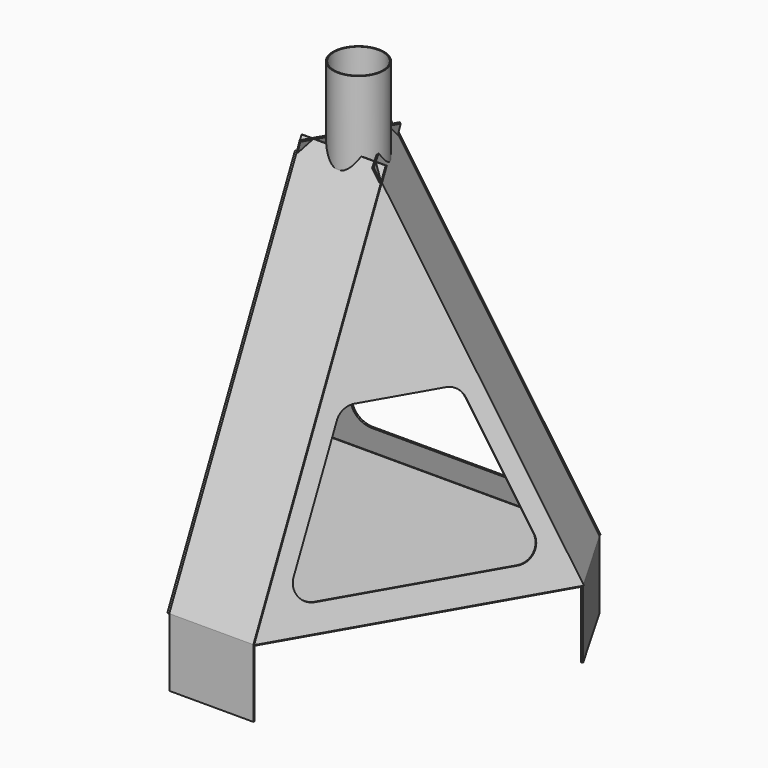
from build123d import *

# Parameters (mm, degrees)
F1_DEPTH  = 4.826
F2_W      = 251.1370434222
F2_H      = 4.826
F3_DEPTH  = 203.2
F4_COUNT  = 3
F6_R      = 76.2
F6_R_2    = 73.152
F7_DEPTH  = 254
F10_DEPTH = 4.826
F11_COUNT = 3
F14_DEPTH = 4.826
F16_DEPTH = 4.826
F17_COUNT = 3


with BuildPart() as f1:
    # F0 (on Top) → F1 (new body)
    with BuildSketch(Plane.XY):
        Polygon((125.5685217111, -544.5089405651), (534.3428359726, 163.5089405651), (408.7743142615, 381), (-408.7743142615, 381), (-534.3428359726, 163.5089405651), (-125.5685217111, -544.5089405651), align=None)
    extrude(amount=F1_DEPTH)


with BuildPart() as f3:
    # F2 (on face) → F3 (new body)
    with BuildSketch(Plane.XY.offset(4.826)):
        with Locations((0, -546.9219405651)):
            Rectangle(F2_W, F2_H)
    extrude(amount=-F3_DEPTH)


with BuildPart() as f4_1:
    # F4: instance of F3
    add(f3.part.rotate(Axis((0, 0, 0), (0, 0, 1)), 1 * 360 / F4_COUNT))


with BuildPart() as f4_2:
    # F4: instance of F3
    add(f3.part.rotate(Axis((0, 0, 0), (0, 0, 1)), 2 * 360 / F4_COUNT))


with BuildPart() as f7:
    # F6 (on offset) → F7 (new body)
    with BuildSketch(Plane.XY.offset(1020.826)):
        Circle(F6_R)
        Circle(F6_R_2, mode=Mode.SUBTRACT)
    extrude(amount=F7_DEPTH)


with BuildPart() as f10:
    # F9 (on face) → F10 (new body)
    with BuildSketch(Plane(origin=(392.3690750515, 226.5343911027, 211.2694428133), x_dir=(-0.3989915443, 0.8914323019, -0.2148352829), z_dir=(0.7848855672, 0.4531538935, 0.4226182617))):
        Polygon((-344.9572540807, 884.0408747831), (-67.9944516387, -251.0583129813), (175.9848824987, -191.5276562343), (-100.9779199434, 943.5715315301), align=None)
    extrude(amount=-F10_DEPTH)


with BuildPart() as f11_1:
    # F11: instance of F10
    add(f10.part.rotate(Axis((0, 0, 0), (0, 0, 1)), 1 * 360 / F11_COUNT))


with BuildPart() as f11_2:
    # F11: instance of F10
    add(f10.part.rotate(Axis((0, 0, 0), (0, 0, 1)), 2 * 360 / F11_COUNT))


with BuildPart() as f14:
    # F13 (on 3pt) → F14 (new body)
    with BuildSketch(Plane(origin=(0, 364.712187638, 85.034043059), x_dir=(1, 0, 0), z_dir=(0, -0.9738798798, -0.227063823))):
        Polygon((412.9537528602, -82.3592772817), (0, 967.6492938297), (-412.9537528602, -82.3592772817), align=None)
    extrude(amount=-F14_DEPTH)

    # F15 (on face) → F16 (cut, through all)
    with BuildSketch(Plane(origin=(0, 369.4121319379, 86.129853069), x_dir=(-1, 0, 0), z_dir=(0, 0.9738798798, 0.227063823))):
        with BuildLine():
            ThreePointArc((-301.1066447019, 63.2334287775), (-295.8144024677, 16.0388824612), (-253.8313733499, -6.1592772817))
            Line((-253.8313733499, -6.1592772817), (253.8313733499, -6.1592772817))
            ThreePointArc((253.8313733499, -6.1592772817), (295.8144024677, 16.0388824612), (301.1066447019, 63.2334287775))
            Line((301.1066447019, 63.2334287775), (161.2541153443, 418.8334287775))
            ThreePointArc((161.2541153443, 418.8334287775), (142.5806842495, 442.2237518361), (113.9788439923, 451.0407227183))
            Line((113.9788439923, 451.0407227183), (-113.9788439923, 451.0407227183))
            ThreePointArc((-113.9788439923, 451.0407227183), (-142.5806842495, 442.2237518361), (-161.2541153443, 418.8334287775))
            Line((-161.2541153443, 418.8334287775), (-301.1066447019, 63.2334287775))
        make_face()
    extrude(amount=-F16_DEPTH, mode=Mode.SUBTRACT)


with BuildPart() as f17_1:
    # F17: instance of F14
    add(f14.part.rotate(Axis((0, 0, 0), (0, 0, 1)), 1 * 360 / F17_COUNT))


with BuildPart() as f17_2:
    # F17: instance of F14
    add(f14.part.rotate(Axis((0, 0, 0), (0, 0, 1)), 2 * 360 / F17_COUNT))


solid = Compound([f1.part, f3.part, f4_1.part, f4_2.part, f7.part, f10.part, f11_1.part, f11_2.part, f14.part, f17_1.part, f17_2.part])
